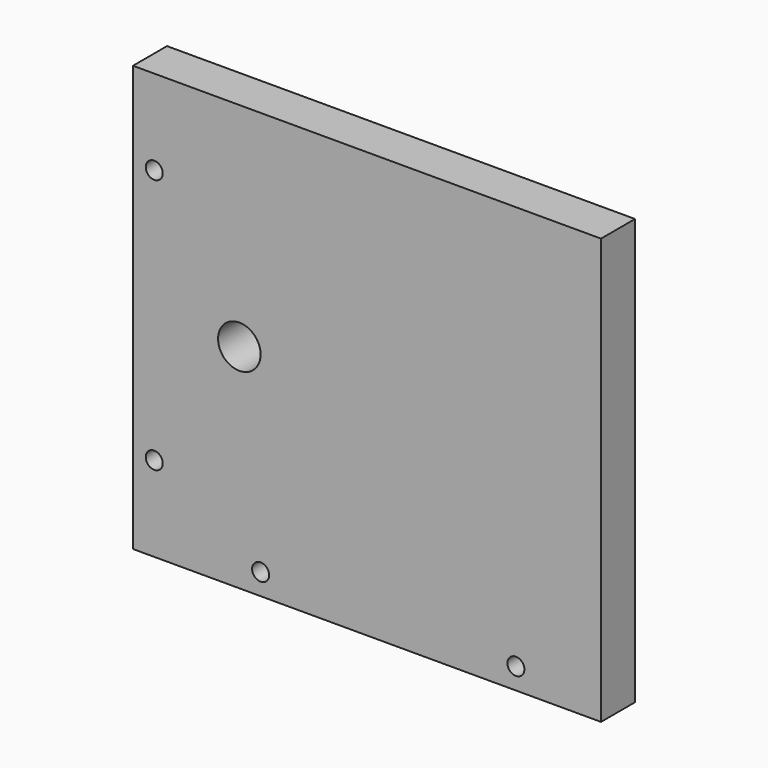
from build123d import *

# Parameters (mm, degrees)
F0_W     = 110
F0_H     = 100
F0_R     = 2
F0_R_2   = 5
F1_DEPTH = 10


with BuildPart() as f1:
    # F0 (on Front) → F1 (new body)
    with BuildSketch(Plane.XZ):
        Rectangle(F0_W, F0_H)
        with Locations((-50, -30)):
            Circle(F0_R, mode=Mode.SUBTRACT)
        with Locations((-25, -45)):
            Circle(F0_R, mode=Mode.SUBTRACT)
        with Locations((35, -45)):
            Circle(F0_R, mode=Mode.SUBTRACT)
        with Locations((-30, 0)):
            Circle(F0_R_2, mode=Mode.SUBTRACT)
        with Locations((-50, 30)):
            Circle(F0_R, mode=Mode.SUBTRACT)
    extrude(amount=F1_DEPTH)


solid = f1.part
